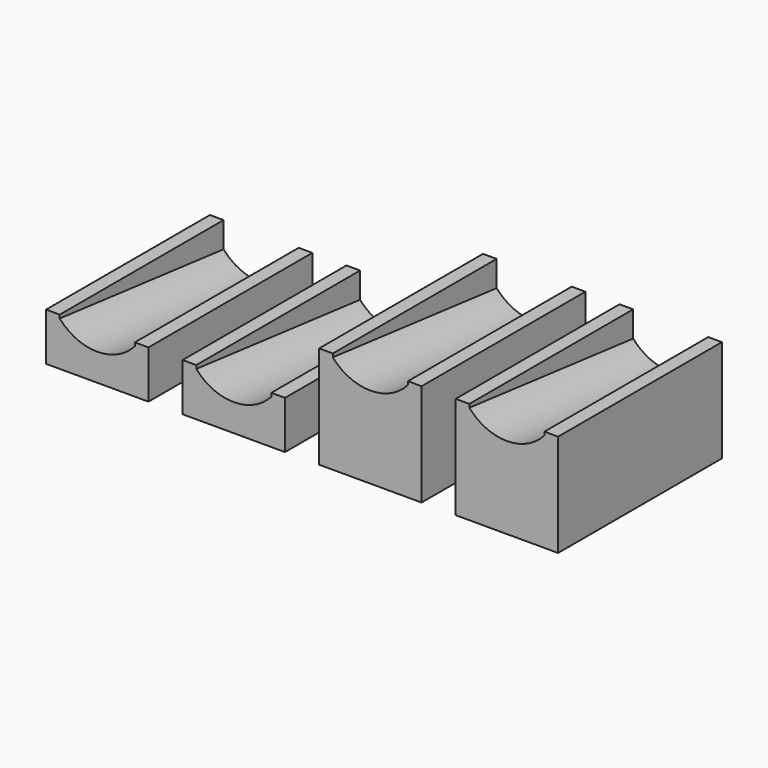
from build123d import *

# Parameters (mm, degrees)
F0_W     = 30
F0_H     = 60
F1_DEPTH = 30
F8_W     = 85.360346
F8_H     = 16
F9_DEPTH = 60.001


with BuildPart() as f1:
    # F0 (on Top) → F1 (new body)
    with BuildSketch(Plane.XY):
        Rectangle(F0_W, F0_H)
    extrude(amount=F1_DEPTH)

    # F4 (on offset) → F5 section 0
    with BuildSketch(Plane.XZ.offset(-190)):
        with BuildLine():
            Line((11, 30), (-11, 30))
            Line((-11, 30), (-11, 5))
            ThreePointArc((-11, 5), (0, 0), (11, 5))
            Line((11, 5), (11, 30))
        make_face()
    # F2 (on face) → F5 section 1
    with BuildSketch(Plane.XZ.offset(30)):
        with BuildLine():
            Line((11, 30), (-11, 30))
            Line((-11, 30), (-11, 29))
            ThreePointArc((-11, 29), (0, 24), (11, 29))
            Line((11, 29), (11, 30))
        make_face()
    loft(mode=Mode.SUBTRACT)


with BuildPart() as f6_1:
    # F6: copy of F1
    add(f1.part.moved(Location((40, 0, 0))))


with BuildPart() as f7_1:
    # F7: copy of F1
    add(f1.part.moved(Location((-80, 0, 0))))


with BuildPart() as f7_2:
    # F7: copy of F6_1
    add(f6_1.part.moved(Location((-80, 0, 0))))


with BuildPart() as f9_tool:
    # F8 (on face) → F9 (new body, through all)
    with BuildSketch(Plane(origin=(0, 30, 0), x_dir=(-1, 0, 0), z_dir=(0, 1, 0))):
        with Locations((67.680173, 8)):
            Rectangle(F8_W, F8_H)
    extrude(amount=-F9_DEPTH)


with BuildPart() as f7_1_1:
    add(f7_1.part)

    # F9: cut by f9_tool
    add(f9_tool.part, mode=Mode.SUBTRACT)


with BuildPart() as f7_2_1:
    add(f7_2.part)

    # F9: cut by f9_tool
    add(f9_tool.part, mode=Mode.SUBTRACT)


with BuildPart() as f7_2_2:
    # F10: moved
    add(f7_2_1.part.moved(Location((0, 0, -16))))


with BuildPart() as f7_1_2:
    # F10: moved
    add(f7_1_1.part.moved(Location((0, 0, -16))))


solid = Compound([f1.part, f6_1.part, f7_2_2.part, f7_1_2.part])
